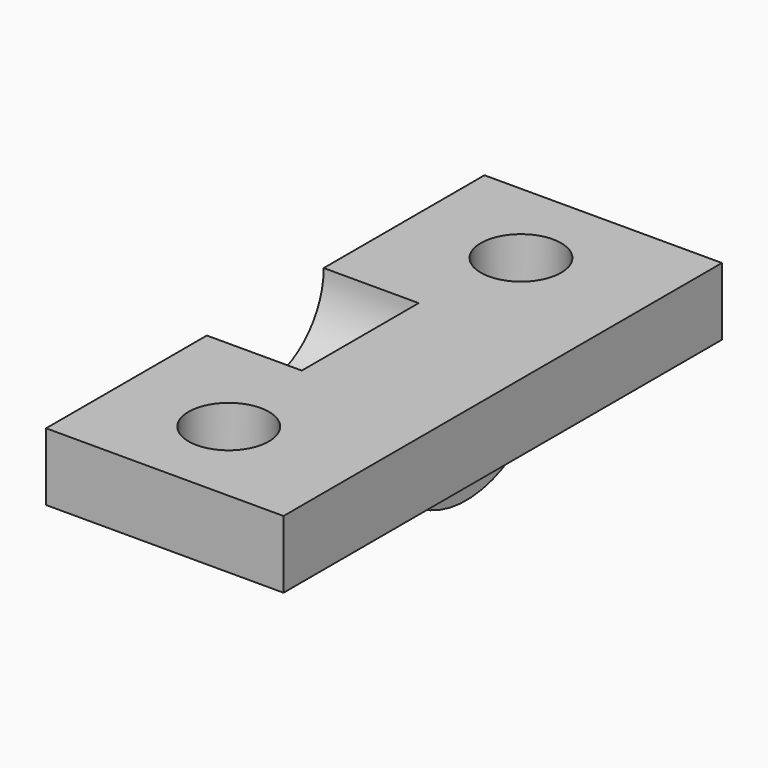
from build123d import *

# Parameters (mm, degrees)
CYLINDER073_R          = 2.2
CYLINDER073_DEPTH      = 20
CYLINDER074_R          = 2.2
CYLINDER074_DEPTH      = 20
CYLINDER072_R          = 4
CYLINDER072_DEPTH      = 6.5
CYLINDER071_W          = 6
CYLINDER071_H          = 11
CYLINDER071_ANGLE      = 180
BOX054_W               = 30
BOX054_H               = 3.7
BOX054_DEPTH           = 13
CUT090_ROLL_ANGLE      = 90
CUT090_PLACEMENT_ANGLE = -90


with BuildPart() as zylinder062:
    # Cylinder073 → Cylinder073 (new body)
    with BuildSketch(Plane(origin=(-10, 9, 5), x_dir=(1, 0, 0), z_dir=(0, -1, 0))):
        Circle(CYLINDER073_R)
    extrude(amount=CYLINDER073_DEPTH)


with BuildPart() as zylinder063:
    # Cylinder074 → Cylinder074 (new body)
    with BuildSketch(Plane(origin=(10, 9, 5), x_dir=(1, 0, 0), z_dir=(0, -1, 0))):
        Circle(CYLINDER074_R)
    extrude(amount=CYLINDER074_DEPTH)


with BuildPart() as zylinder061:
    # Cylinder072 → Cylinder072 (new body)
    with BuildSketch(Plane.XY.offset(5.8)):
        Circle(CYLINDER072_R)
    extrude(amount=CYLINDER072_DEPTH)


with BuildPart() as zylinder060:
    # Cylinder071 → Cylinder071 (revolve)
    with BuildSketch(Plane(origin=(0, 0, 0), x_dir=(-1, 0, 0), z_dir=(0, 1, 0))):
        with Locations((3, 5.5)):
            Rectangle(CYLINDER071_W, CYLINDER071_H)
    revolve(axis=Axis((0, 0, 0), (0, 0, 1)), revolution_arc=CYLINDER071_ANGLE)


with BuildPart() as y_drive_mount_top004:
    # Box054 → Box054 (new body)
    with BuildSketch(Plane(origin=(-15, -3.7, -2), x_dir=(1, 0, 0), z_dir=(0, 0, 1))):
        with Locations((15, 1.85)):
            Rectangle(BOX054_W, BOX054_H)
    extrude(amount=BOX054_DEPTH)

    # Fusion041: union Zylinder060
    add(zylinder060.part)

    # Cut081: cut Zylinder061
    add(zylinder061.part, mode=Mode.SUBTRACT)

    # Cut082: cut Zylinder063
    add(zylinder063.part, mode=Mode.SUBTRACT)

    # Cut090: cut Zylinder062
    add(zylinder062.part, mode=Mode.SUBTRACT)


with BuildPart() as y_drive_mount_top004_1:
    # Cut090 roll: moved
    add(y_drive_mount_top004.part.rotate(Axis((0, 0, 0), (1, 0, 0)), CUT090_ROLL_ANGLE))


with BuildPart() as y_drive_mount_top004_2:
    # Cut090 placement: moved
    add(y_drive_mount_top004_1.part.moved(Location((403.75, 652.85, 53.2))).rotate(Axis((403.75, 652.85, 53.2), (0, 0, 1)), CUT090_PLACEMENT_ANGLE))


solid = y_drive_mount_top004_2.part
